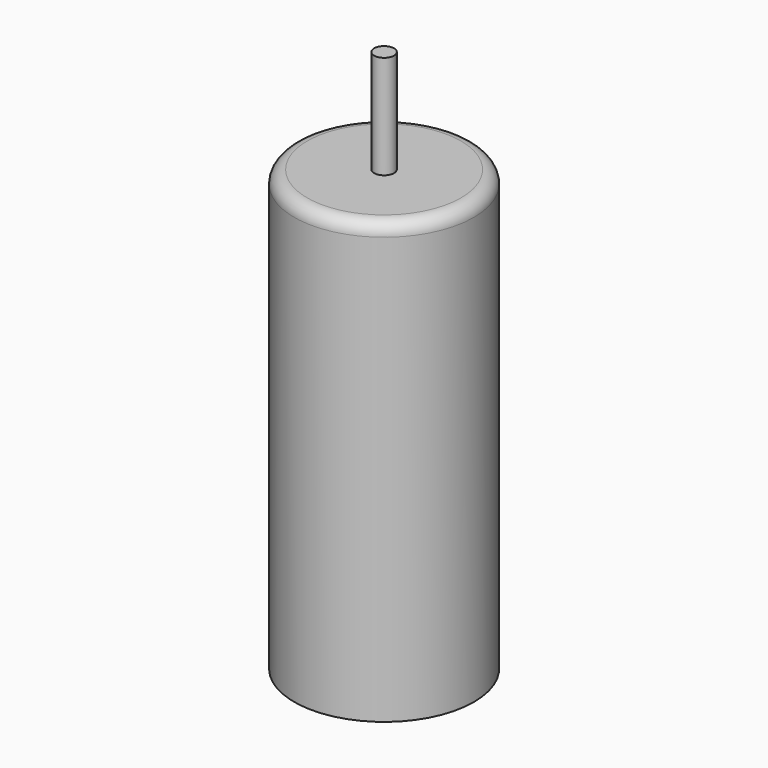
from build123d import *

# Parameters (mm, degrees)
F0_R     = 3.475
F1_DEPTH = 17
F2_R     = 0.385
F3_DEPTH = 4
F4_R     = 0.5


with BuildPart() as f1:
    # F0 (on Top) → F1 (new body)
    with BuildSketch(Plane.XY):
        Circle(F0_R)
    extrude(amount=F1_DEPTH)

    # F4
    f4_edges = [f1.edges().sort_by_distance(p)[0] for p in [
        (-3.475, 0, 17),
    ]]
    fillet(f4_edges, radius=F4_R)


with BuildPart() as f3:
    # F2 (on face) → F3 (new body)
    with BuildSketch(Plane.XY.offset(17)):
        Circle(F2_R)
    extrude(amount=F3_DEPTH)


solid = Compound([f1.part, f3.part])
